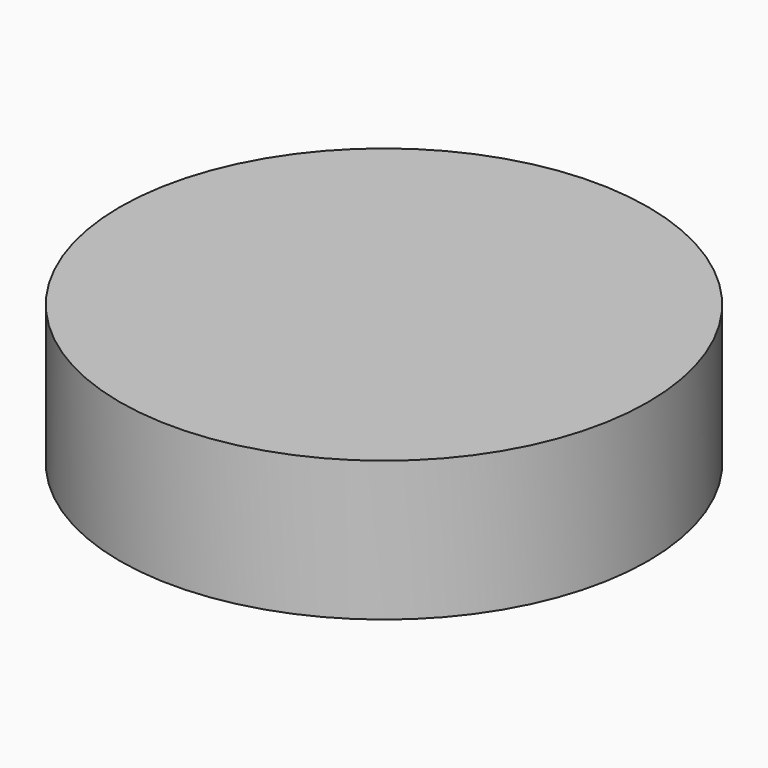
from build123d import *

# Parameters (mm, degrees)
F0_R     = 50.8
F1_DEPTH = 1.5
F2_R     = 50.8
F2_R_2   = 1.5
F3_DEPTH = 25.4


with BuildPart() as f1:
    # F0 (on Top) → F1 (new body)
    with BuildSketch(Plane.XY):
        Circle(F0_R)
    extrude(amount=F1_DEPTH)

    # F2 (on face) → F3 (join)
    with BuildSketch(Plane.XY.offset(1.5)):
        Circle(F2_R)
        Circle(F2_R_2, mode=Mode.SUBTRACT)
        Circle(F2_R_2)
    extrude(amount=F3_DEPTH)


solid = f1.part
